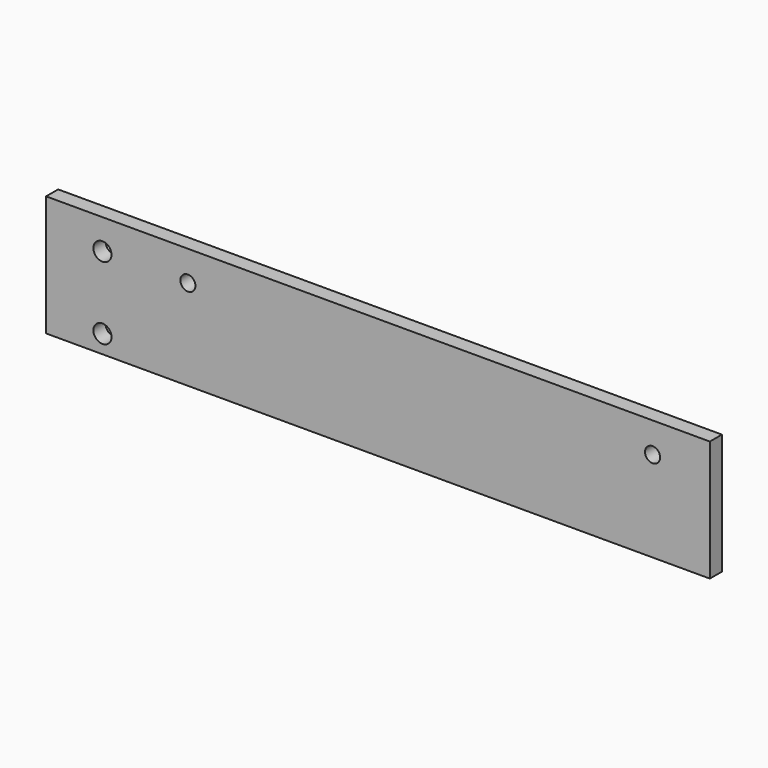
from build123d import *

# Parameters (mm, degrees)
F0_W     = 219.993006
F0_H     = 39.99992
F0_R     = 2.999994
F0_R_2   = 2.499995
F0_R_3   = 2.5019
F1_DEPTH = 4.99999


with BuildPart() as f1:
    # F0 (on Front) → F1 (new body)
    with BuildSketch(Plane.XZ):
        Rectangle(F0_W, F0_H)
        with Locations((-91.313623, -13.999972)):
            Circle(F0_R, mode=Mode.SUBTRACT)
        with Locations((-62.996397, 9.99236)):
            Circle(F0_R_2, mode=Mode.SUBTRACT)
        with Locations((-91.313623, 10.000031)):
            Circle(F0_R, mode=Mode.SUBTRACT)
        with Locations((91.003603, 9.99236)):
            Circle(F0_R_3, mode=Mode.SUBTRACT)
    extrude(amount=F1_DEPTH)


solid = f1.part
